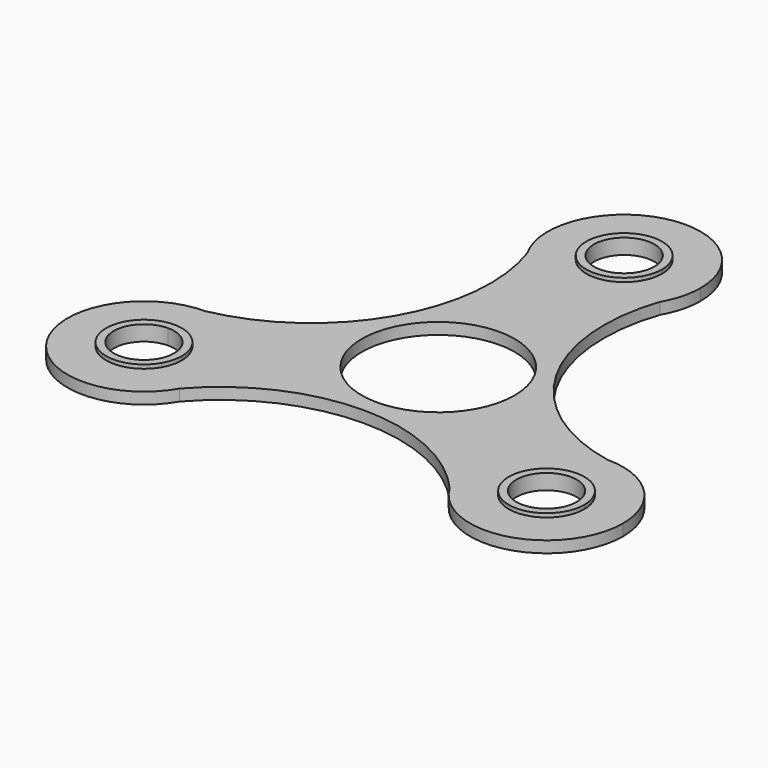
from build123d import *

# Parameters (mm, degrees)
F0_R     = 10
F1_DEPTH = 1.5
F2_DEPTH = 2


with BuildPart() as f1:
    # F0 (on Top) → F1 (new body)
    with BuildSketch(Plane.XY):
        with BuildLine():
            ThreePointArc((8.6602540378, 25.4), (0, 20.4), (-8.6602540378, 25.4))
            ThreePointArc((-8.6602540378, 25.4), (-10.5481894181, 6.09), (-26.327172275, -5.2))
            ThreePointArc((-26.327172275, -5.2), (-19.2561044632, -8.1289321881), (-16.327172275, -15.2))
            ThreePointArc((-16.327172275, -15.2), (-16.6679140122, -17.788190451), (-17.6669182372, -20.2))
            ThreePointArc((-17.6669182372, -20.2), (0, -12.18), (17.6669182372, -20.2))
            ThreePointArc((17.6669182372, -20.2), (17.6669182372, -10.2), (26.327172275, -5.2))
            ThreePointArc((26.327172275, -5.2), (10.5481894181, 6.09), (8.6602540378, 25.4))
        make_face()
        Circle(F0_R, mode=Mode.SUBTRACT)
        with BuildLine():
            ThreePointArc((4.2868257487, 27.925), (0, 25.45), (-4.2868257487, 27.925))
            Line((-4.2868257487, 27.925), (-8.6602540378, 25.4))
            ThreePointArc((-8.6602540378, 25.4), (0, 20.4), (8.6602540378, 25.4))
            Line((8.6602540378, 25.4), (4.2868257487, 27.925))
        make_face()
        with BuildLine():
            Line((-8.6602540378, 25.4), (-4.2868257487, 27.925))
            ThreePointArc((-4.2868257487, 27.925), (-1.2811542733, 35.1813328401), (4.95, 30.4))
            ThreePointArc((4.95, 30.4), (4.7813328401, 29.1188457267), (4.2868257487, 27.925))
            Line((4.2868257487, 27.925), (8.6602540378, 25.4))
            ThreePointArc((8.6602540378, 25.4), (9.6592582629, 27.811809549), (10, 30.4))
            ThreePointArc((10, 30.4), (-2.588190451, 40.0592582629), (-8.6602540378, 25.4))
        make_face()
        with BuildLine():
            Line((26.327172275, -10.25), (26.327172275, -5.2))
            ThreePointArc((26.327172275, -5.2), (17.6669182372, -10.2), (17.6669182372, -20.2))
            Line((17.6669182372, -20.2), (22.0403465263, -17.675))
            ThreePointArc((22.0403465263, -17.675), (22.0403465263, -12.725), (26.327172275, -10.25))
        make_face()
        with BuildLine():
            ThreePointArc((36.327172275, -15.2), (33.3982400869, -8.1289321881), (26.327172275, -5.2))
            Line((26.327172275, -5.2), (26.327172275, -10.25))
            ThreePointArc((26.327172275, -10.25), (29.8273508419, -11.6998214331), (31.277172275, -15.2))
            ThreePointArc((31.277172275, -15.2), (27.6083265483, -19.9813328401), (22.0403465263, -17.675))
            Line((22.0403465263, -17.675), (17.6669182372, -20.2))
            ThreePointArc((17.6669182372, -20.2), (28.9153627261, -24.8592582629), (36.327172275, -15.2))
        make_face()
        with BuildLine():
            ThreePointArc((-16.327172275, -15.2), (-19.2561044632, -8.1289321881), (-26.327172275, -5.2))
            Line((-26.327172275, -5.2), (-26.327172275, -10.25))
            ThreePointArc((-26.327172275, -10.25), (-22.8269937082, -11.6998214331), (-21.377172275, -15.2))
            ThreePointArc((-21.377172275, -15.2), (-21.5458394349, -16.4811542733), (-22.0403465263, -17.675))
            Line((-22.0403465263, -17.675), (-17.6669182372, -20.2))
            ThreePointArc((-17.6669182372, -20.2), (-16.6679140122, -17.788190451), (-16.327172275, -15.2))
        make_face()
        with BuildLine():
            Line((-26.327172275, -10.25), (-26.327172275, -5.2))
            ThreePointArc((-26.327172275, -5.2), (-34.9874263129, -20.2), (-17.6669182372, -20.2))
            Line((-17.6669182372, -20.2), (-22.0403465263, -17.675))
            ThreePointArc((-22.0403465263, -17.675), (-30.6139980238, -17.675), (-26.327172275, -10.25))
        make_face()
    extrude(amount=F1_DEPTH)

    # F0 (on Top) → F2 (join)
    with BuildSketch(Plane.XY):
        with BuildLine():
            ThreePointArc((3.4208003449, 28.425), (0, 26.45), (-3.4208003449, 28.425))
            Line((-3.4208003449, 28.425), (-4.2868257487, 27.925))
            ThreePointArc((-4.2868257487, 27.925), (0, 25.45), (4.2868257487, 27.925))
            Line((4.2868257487, 27.925), (3.4208003449, 28.425))
        make_face()
        with BuildLine():
            ThreePointArc((-3.4208003449, 28.425), (-1.0223352282, 34.2154070138), (3.95, 30.4))
            ThreePointArc((3.95, 30.4), (3.8154070138, 29.3776647718), (3.4208003449, 28.425))
            Line((3.4208003449, 28.425), (4.2868257487, 27.925))
            ThreePointArc((4.2868257487, 27.925), (4.7813328401, 29.1188457267), (4.95, 30.4))
            ThreePointArc((4.95, 30.4), (-1.2811542733, 35.1813328401), (-4.2868257487, 27.925))
            Line((-4.2868257487, 27.925), (-3.4208003449, 28.425))
        make_face()
        with BuildLine():
            Line((26.327172275, -11.25), (26.327172275, -10.25))
            ThreePointArc((26.327172275, -10.25), (22.0403465263, -12.725), (22.0403465263, -17.675))
            Line((22.0403465263, -17.675), (22.9063719301, -17.175))
            ThreePointArc((22.9063719301, -17.175), (22.9063719301, -13.225), (26.327172275, -11.25))
        make_face()
        with BuildLine():
            ThreePointArc((31.277172275, -15.2), (29.8273508419, -11.6998214331), (26.327172275, -10.25))
            Line((26.327172275, -10.25), (26.327172275, -11.25))
            ThreePointArc((26.327172275, -11.25), (29.1202440607, -12.4069282143), (30.277172275, -15.2))
            ThreePointArc((30.277172275, -15.2), (27.3495075032, -19.0154070138), (22.9063719301, -17.175))
            Line((22.9063719301, -17.175), (22.0403465263, -17.675))
            ThreePointArc((22.0403465263, -17.675), (27.6083265483, -19.9813328401), (31.277172275, -15.2))
        make_face()
        with BuildLine():
            ThreePointArc((-21.377172275, -15.2), (-22.8269937082, -11.6998214331), (-26.327172275, -10.25))
            Line((-26.327172275, -10.25), (-26.327172275, -11.25))
            ThreePointArc((-26.327172275, -11.25), (-23.5341004894, -12.4069282143), (-22.377172275, -15.2))
            ThreePointArc((-22.377172275, -15.2), (-22.5117652612, -16.2223352282), (-22.9063719301, -17.175))
            Line((-22.9063719301, -17.175), (-22.0403465263, -17.675))
            ThreePointArc((-22.0403465263, -17.675), (-21.5458394349, -16.4811542733), (-21.377172275, -15.2))
        make_face()
        with BuildLine():
            Line((-26.327172275, -11.25), (-26.327172275, -10.25))
            ThreePointArc((-26.327172275, -10.25), (-30.6139980238, -17.675), (-22.0403465263, -17.675))
            Line((-22.0403465263, -17.675), (-22.9063719301, -17.175))
            ThreePointArc((-22.9063719301, -17.175), (-29.74797262, -17.175), (-26.327172275, -11.25))
        make_face()
    extrude(amount=F2_DEPTH)


solid = f1.part
